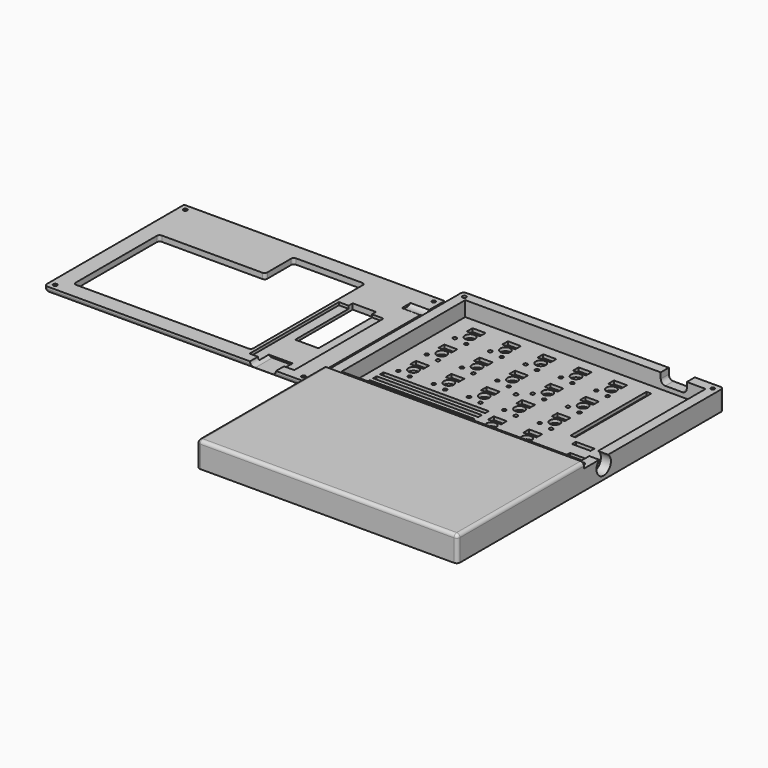
from build123d import *

# Parameters (mm, degrees)
PAD002_DEPTH            = 13.6
SKETCH023_W             = 129.2
SKETCH023_H             = 83.1
POCKET016_DEPTH         = 11
SKETCH027_R             = 1.05
POCKET018_DEPTH         = 13.601
SKETCH028_W             = 140
SKETCH028_H             = 93.9
POCKET019_DEPTH         = 3
POCKET021_DEPTH         = 1.6
SKETCH031_R             = 1
SKETCH031_R_2           = 2.7
SKETCH031_W             = 7
SKETCH031_H             = 3.8
POCKET022_DEPTH         = 1.8
SKETCH032_W             = 2.6
SKETCH032_H             = 51
SKETCH032_W_2           = 10
SKETCH032_H_2           = 2.6
POCKET023_DEPTH         = 1.8
SKETCH033_W             = 56.5
SKETCH033_H             = 2.4
SKETCH033_W_2           = 22.5
POCKET024_DEPTH         = 1.8
SKETCH034_W             = 15
SKETCH034_H             = 10
POCKET025_DEPTH         = 1.8
SKETCH035_R             = 4.85
POCKET026_DEPTH         = 5.4
FILLET003_R             = 1.8
POCKET027_DEPTH         = 10
SKETCH038_W             = 140
SKETCH038_H             = 93.9
PAD004_DEPTH            = 3
SKETCH039_W             = 12.5
SKETCH039_H             = 38.6472
POCKET028_DEPTH         = 3
SKETCH040_W             = 24
SKETCH040_H             = 60
POCKET029_DEPTH         = 1.5
SKETCH041_R             = 1.05
POCKET030_DEPTH         = 3.001
SKETCH042_R             = 1.9
POCKET031_DEPTH         = 1.4
CHAMFER001_1_ANGLE      = 45
CHAMFER001_1_SIZE       = 0.843
CHAMFER001_2_ANGLE      = 45
CHAMFER001_2_SIZE       = 0.843
CHAMFER001_3_ANGLE      = 45
CHAMFER001_3_SIZE       = 0.843
CHAMFER001_4_ANGLE      = 45
CHAMFER001_4_SIZE       = 0.843
FILLET004_R             = 1.5
SKETCH043_R             = 4.85
POCKET032_DEPTH         = 10
FILLET005_R             = 1.8
POCKET033_DEPTH         = 12
BODY003_PLACEMENT_ANGLE = 180


with BuildPart() as bottom001:
    # Sketch022 (on XY_Plane077 of Origin464) → Pad002 (new body)
    with BuildSketch(Plane.XY):
        Polygon((70, -46.95), (70, 46.95), (-70, 46.95), (-70, -46.95), (-70, -131.95), (70, -131.95), align=None)
    extrude(amount=PAD002_DEPTH)

    # Sketch023 (on Face4 of Pad002) → Pocket016 (cut)
    with BuildSketch(Plane.XY.offset(13.6)):
        Rectangle(SKETCH023_W, SKETCH023_H)
    extrude(amount=-POCKET016_DEPTH, mode=Mode.SUBTRACT)

    # Sketch027 (on Face5 of Pocket016) → Pocket018 (cut, through all)
    with BuildSketch(Plane.XY.offset(13.6)):
        with Locations((66.75, 43.7)):
            Circle(SKETCH027_R)
        with Locations((66.75, -43.7)):
            Circle(SKETCH027_R)
        with Locations((-66.75, -43.7)):
            Circle(SKETCH027_R)
        with Locations((-66.75, 43.7)):
            Circle(SKETCH027_R)
        with Locations((-4.05, 0)):
            Circle(SKETCH027_R)
    extrude(amount=-POCKET018_DEPTH, mode=Mode.SUBTRACT)

    # Sketch028 (on Face4 of Pad002) → Pocket019 (cut)
    with BuildSketch(Plane.XY.offset(13.6)):
        Rectangle(SKETCH028_W, SKETCH028_H)
    extrude(amount=-POCKET019_DEPTH, mode=Mode.SUBTRACT)

    # Sketch030 (on Face2 of Pocket019) → Pocket021 (cut)
    with BuildSketch(Plane(origin=(0, 0, 0), x_dir=(1, 0, 0), z_dir=(0, 0, -1))):
        Polygon((64.75, -43.7), (65.75, -45.432051), (67.75, -45.432051), (68.75, -43.7), (67.75, -41.967949), (65.75, -41.967949), align=None)
        Polygon((-64.75, -43.7), (-65.75, -45.432051), (-67.75, -45.432051), (-68.75, -43.7), (-67.75, -41.967949), (-65.75, -41.967949), align=None)
        Polygon((64.75, 43.7), (65.75, 45.432051), (67.75, 45.432051), (68.75, 43.7), (67.75, 41.967949), (65.75, 41.967949), align=None)
        Polygon((-64.75, 43.7), (-65.75, 45.432051), (-67.75, 45.432051), (-68.75, 43.7), (-67.75, 41.967949), (-65.75, 41.967949), align=None)
        Polygon((-2.05, 0), (-3.05, 1.732051), (-5.05, 1.732051), (-6.05, 0), (-5.05, -1.732051), (-3.05, -1.732051), align=None)
    extrude(amount=-POCKET021_DEPTH, mode=Mode.SUBTRACT)

    # Sketch031 (on Face52 of Pocket021) → Pocket022 (cut)
    with BuildSketch(Plane.XY.offset(2.6)):
        with Locations((8.05, 3.75)):
            Circle(SKETCH031_R)
        with Locations((1.05, 4.8)):
            Circle(SKETCH031_R)
        with Locations((5.45, 9.5)):
            Circle(SKETCH031_R_2)
        with Locations((8.05, 22.75)):
            Circle(SKETCH031_R)
        with Locations((1.05, 23.8)):
            Circle(SKETCH031_R)
        with Locations((5.45, 28.5)):
            Circle(SKETCH031_R_2)
        with Locations((-29.95, 3.75)):
            Circle(SKETCH031_R)
        with Locations((-36.95, 4.8)):
            Circle(SKETCH031_R)
        with Locations((-32.55, 9.5)):
            Circle(SKETCH031_R_2)
        with Locations((-29.95, 22.75)):
            Circle(SKETCH031_R)
        with Locations((-36.95, 23.8)):
            Circle(SKETCH031_R)
        with Locations((-32.55, 28.5)):
            Circle(SKETCH031_R_2)
        with Locations((-48.95, 22.75)):
            Circle(SKETCH031_R)
        with Locations((-55.95, 23.8)):
            Circle(SKETCH031_R)
        with Locations((-51.55, 28.5)):
            Circle(SKETCH031_R_2)
        with Locations((-48.95, 3.75)):
            Circle(SKETCH031_R)
        with Locations((-55.95, 4.8)):
            Circle(SKETCH031_R)
        with Locations((-51.55, 9.5)):
            Circle(SKETCH031_R_2)
        with Locations((-10.95, 22.75)):
            Circle(SKETCH031_R)
        with Locations((-17.95, 23.8)):
            Circle(SKETCH031_R)
        with Locations((-13.55, 28.5)):
            Circle(SKETCH031_R_2)
        with Locations((27.05, 3.75)):
            Circle(SKETCH031_R)
        with Locations((20.05, 4.8)):
            Circle(SKETCH031_R)
        with Locations((24.45, 9.5)):
            Circle(SKETCH031_R_2)
        with Locations((27.05, 22.75)):
            Circle(SKETCH031_R)
        with Locations((20.05, 23.8)):
            Circle(SKETCH031_R)
        with Locations((24.45, 28.5)):
            Circle(SKETCH031_R_2)
        with Locations((-48.95, -15.25)):
            Circle(SKETCH031_R)
        with Locations((-55.95, -14.2)):
            Circle(SKETCH031_R)
        with Locations((-51.55, -9.5)):
            Circle(SKETCH031_R_2)
        with Locations((-29.95, -15.25)):
            Circle(SKETCH031_R)
        with Locations((-36.95, -14.2)):
            Circle(SKETCH031_R)
        with Locations((-32.55, -9.5)):
            Circle(SKETCH031_R_2)
        with Locations((-10.95, -15.25)):
            Circle(SKETCH031_R)
        with Locations((-17.95, -14.2)):
            Circle(SKETCH031_R)
        with Locations((-13.55, -9.5)):
            Circle(SKETCH031_R_2)
        with Locations((8.05, -15.25)):
            Circle(SKETCH031_R)
        with Locations((1.05, -14.2)):
            Circle(SKETCH031_R)
        with Locations((5.45, -9.5)):
            Circle(SKETCH031_R_2)
        with Locations((27.05, -15.25)):
            Circle(SKETCH031_R)
        with Locations((20.05, -14.2)):
            Circle(SKETCH031_R)
        with Locations((24.45, -9.5)):
            Circle(SKETCH031_R_2)
        with Locations((8.05, -34.25)):
            Circle(SKETCH031_R)
        with Locations((1.05, -33.2)):
            Circle(SKETCH031_R)
        with Locations((5.45, -28.5)):
            Circle(SKETCH031_R_2)
        with Locations((27.05, -34.25)):
            Circle(SKETCH031_R)
        with Locations((20.05, -33.2)):
            Circle(SKETCH031_R)
        with Locations((24.45, -28.5)):
            Circle(SKETCH031_R_2)
        with Locations((-10.95, 3.75)):
            Circle(SKETCH031_R)
        with Locations((-17.95, 4.8)):
            Circle(SKETCH031_R)
        with Locations((-13.55, 9.5)):
            Circle(SKETCH031_R_2)
        with Locations((4.65, 14.65)):
            Rectangle(SKETCH031_W, SKETCH031_H)
        with Locations((4.65, 33.65)):
            Rectangle(SKETCH031_W, SKETCH031_H)
        with Locations((-33.35, 14.65)):
            Rectangle(SKETCH031_W, SKETCH031_H)
        with Locations((-33.35, 33.65)):
            Rectangle(SKETCH031_W, SKETCH031_H)
        with Locations((-52.35, 33.65)):
            Rectangle(SKETCH031_W, SKETCH031_H)
        with Locations((-52.35, 14.65)):
            Rectangle(SKETCH031_W, SKETCH031_H)
        with Locations((-14.35, 33.65)):
            Rectangle(SKETCH031_W, SKETCH031_H)
        with Locations((23.65, 14.65)):
            Rectangle(SKETCH031_W, SKETCH031_H)
        with Locations((23.65, 33.65)):
            Rectangle(SKETCH031_W, SKETCH031_H)
        with Locations((-52.35, -4.35)):
            Rectangle(SKETCH031_W, SKETCH031_H)
        with Locations((-33.35, -4.35)):
            Rectangle(SKETCH031_W, SKETCH031_H)
        with Locations((-14.35, -4.35)):
            Rectangle(SKETCH031_W, SKETCH031_H)
        with Locations((4.65, -4.35)):
            Rectangle(SKETCH031_W, SKETCH031_H)
        with Locations((23.65, -4.35)):
            Rectangle(SKETCH031_W, SKETCH031_H)
        with Locations((4.65, -23.35)):
            Rectangle(SKETCH031_W, SKETCH031_H)
        with Locations((23.65, -23.35)):
            Rectangle(SKETCH031_W, SKETCH031_H)
        with Locations((-14.35, 14.65)):
            Rectangle(SKETCH031_W, SKETCH031_H)
    extrude(amount=-POCKET022_DEPTH, mode=Mode.SUBTRACT)

    # Sketch032 (on Face52 of Pocket022) → Pocket023 (cut)
    with BuildSketch(Plane.XY.offset(2.6)):
        with Locations((38.55, 10.5)):
            Rectangle(SKETCH032_W, SKETCH032_H)
        with Locations((56.4, 10.5)):
            Rectangle(SKETCH032_W, SKETCH032_H)
        with Locations((47.5, -19.3)):
            Rectangle(SKETCH032_W_2, SKETCH032_H_2)
    extrude(amount=-POCKET023_DEPTH, mode=Mode.SUBTRACT)

    # Sketch033 (on Face52 of Pocket023) → Pocket024 (cut)
    with BuildSketch(Plane.XY.offset(2.6)):
        with Locations((-31.75, -24.9)):
            Rectangle(SKETCH033_W, SKETCH033_H)
        with Locations((-31.75, -29.5)):
            Rectangle(SKETCH033_W, SKETCH033_H)
        with Locations((-14.75, -34.1)):
            Rectangle(SKETCH033_W_2, SKETCH033_H)
        with Locations((-31.75, -20.3)):
            Rectangle(SKETCH033_W, SKETCH033_H)
    extrude(amount=-POCKET024_DEPTH, mode=Mode.SUBTRACT)

    # Sketch034 (on Face52 of Pocket024) → Pocket025 (cut)
    with BuildSketch(Plane.XY.offset(2.6)):
        with Locations((54.375, -32.375)):
            Rectangle(SKETCH034_W, SKETCH034_H)
    extrude(amount=-POCKET025_DEPTH, mode=Mode.SUBTRACT)

    # Sketch035 (on Face5 of Pocket025) → Pocket026 (cut)
    with BuildSketch(Plane.YZ.offset(70)):
        with Locations((-33.65, 6.75)):
            Circle(SKETCH035_R)
    extrude(amount=-POCKET026_DEPTH, mode=Mode.SUBTRACT)

    # Fillet003
    fillet003_edges = [bottom001.edges().sort_by_distance(p)[0] for p in [
        (-70, -89.45, 13.6),
        (0, -131.95, 13.6),
        (-70, -131.95, 6.8),
        (-70, 46.95, 5.3),
        (70, 46.95, 5.3),
        (70, -89.45, 13.6),
        (70, -131.95, 6.8),
    ]]
    fillet(fillet003_edges, radius=FILLET003_R)

    # Sketch037 (on Face1 of Fillet003) → Pocket027 (cut)
    with BuildSketch(Plane(origin=(0, 46.95, 0), x_dir=(-1, 0, 0), z_dir=(0, 1, 0))):
        with BuildLine():
            Line((-40.5, 7.5), (-40.5, 10.5))
            ThreePointArc((-40.5, 10.5), (-41.232233, 12.267767), (-43, 13))
            Line((-43, 13), (-52, 13))
            ThreePointArc((-52, 13), (-53.767767, 12.267767), (-54.5, 10.5))
            Line((-54.5, 10.5), (-54.5, 7.5))
            ThreePointArc((-54.5, 7.5), (-53.767767, 5.732233), (-52, 5))
            Line((-52, 5), (-43, 5))
            ThreePointArc((-43, 5), (-41.232233, 5.732233), (-40.5, 7.5))
        make_face()
    extrude(amount=-POCKET027_DEPTH, mode=Mode.SUBTRACT)


with BuildPart() as bottom001_1:
    # Body002 placement: moved
    add(bottom001.part.moved(Location((0, 0, -0.1))))


with BuildPart() as top001:
    # Sketch038 (on XY_Plane154 of Origin468) → Pad004 (new body)
    with BuildSketch(Plane.XY):
        Rectangle(SKETCH038_W, SKETCH038_H)
    extrude(amount=PAD004_DEPTH)

    # Sketch039 (on Face6 of Pad004) → Pocket028 (cut)
    with BuildSketch(Plane.XY.offset(3)):
        Polygon((-61.3, 38.25), (-61.3, -19.25), (-4.3, -19.25), (-4.3, -38.25), (34.2, -38.25), (34.2, 38.25), align=None)
        with Locations((47.48708, -1.86296)):
            Rectangle(SKETCH039_W, SKETCH039_H)
    extrude(amount=-POCKET028_DEPTH, mode=Mode.SUBTRACT)

    # Sketch040 (on Face4 of Pocket028) → Pocket029 (cut)
    with BuildSketch(Plane(origin=(0, 0, 0), x_dir=(1, 0, 0), z_dir=(0, 0, -1))):
        with Locations((48, -11.55)):
            Rectangle(SKETCH040_W, SKETCH040_H)
    extrude(amount=-POCKET029_DEPTH, mode=Mode.SUBTRACT)

    # Sketch041 (on Face5 of Pocket029) → Pocket030 (cut, through all)
    with BuildSketch(Plane.XY.offset(3)):
        with Locations((66.75, 43.7)):
            Circle(SKETCH041_R)
        with Locations((66.75, -43.7)):
            Circle(SKETCH041_R)
        with Locations((-66.75, -43.7)):
            Circle(SKETCH041_R)
        with Locations((-66.75, 43.7)):
            Circle(SKETCH041_R)
    extrude(amount=-POCKET030_DEPTH, mode=Mode.SUBTRACT)

    # Sketch042 (on Face5 of Pocket030) → Pocket031 (cut)
    with BuildSketch(Plane.XY.offset(3)):
        with Locations((-66.75, 43.7)):
            Circle(SKETCH042_R)
        with Locations((66.75, 43.7)):
            Circle(SKETCH042_R)
        with Locations((-66.75, -43.7)):
            Circle(SKETCH042_R)
        with Locations((66.75, -43.7)):
            Circle(SKETCH042_R)
    extrude(amount=-POCKET031_DEPTH, mode=Mode.SUBTRACT)

    # Chamfer001 1
    chamfer001_1_edges = [top001.edges().sort_by_distance(p)[0] for p in [
        (-67.8, 43.7, 1.6),
    ]]
    chamfer001_1_side = top001.faces().sort_by_distance((-67.8, 43.7, 0.8))[0]
    chamfer(chamfer001_1_edges, length=CHAMFER001_1_SIZE, angle=CHAMFER001_1_ANGLE, reference=chamfer001_1_side)

    # Chamfer001 2
    chamfer001_2_edges = [top001.edges().sort_by_distance(p)[0] for p in [
        (65.7, -43.7, 1.6),
    ]]
    chamfer001_2_side = top001.faces().sort_by_distance((65.7, -43.7, 0.8))[0]
    chamfer(chamfer001_2_edges, length=CHAMFER001_2_SIZE, angle=CHAMFER001_2_ANGLE, reference=chamfer001_2_side)

    # Chamfer001 3
    chamfer001_3_edges = [top001.edges().sort_by_distance(p)[0] for p in [
        (-67.8, -43.7, 1.6),
    ]]
    chamfer001_3_side = top001.faces().sort_by_distance((-67.8, -43.7, 0.8))[0]
    chamfer(chamfer001_3_edges, length=CHAMFER001_3_SIZE, angle=CHAMFER001_3_ANGLE, reference=chamfer001_3_side)

    # Chamfer001 4
    chamfer001_4_edges = [top001.edges().sort_by_distance(p)[0] for p in [
        (65.7, 43.7, 1.6),
    ]]
    chamfer001_4_side = top001.faces().sort_by_distance((65.7, 43.7, 0.8))[0]
    chamfer(chamfer001_4_edges, length=CHAMFER001_4_SIZE, angle=CHAMFER001_4_ANGLE, reference=chamfer001_4_side)

    # Fillet004
    fillet004_edges = [top001.edges().sort_by_distance(p)[0] for p in [
        (-4.3, -38.25, 1.5),
        (34.2, -38.25, 1.5),
        (34.2, 38.25, 1.5),
        (-61.3, 38.25, 1.5),
        (-61.3, -19.25, 1.5),
        (-4.3, -19.25, 1.5),
    ]]
    fillet(fillet004_edges, radius=FILLET004_R)

    # Sketch043 (on Face16 of Fillet004) → Pocket032 (cut)
    with BuildSketch(Plane.YZ.offset(70)):
        with Locations((-33.64, -3.85)):
            Circle(SKETCH043_R)
    extrude(amount=-POCKET032_DEPTH, mode=Mode.SUBTRACT)

    # Fillet005
    fillet005_edges = [top001.edges().sort_by_distance(p)[0] for p in [
        (70, 0, 3),
        (0, 46.95, 3),
        (70, 46.95, 1.5),
        (-70, 46.95, 1.5),
        (-70, 0, 3),
    ]]
    fillet(fillet005_edges, radius=FILLET005_R)

    # Sketch044 (on Face5 of Fillet005) → Pocket033 (cut)
    with BuildSketch(Plane(origin=(0, 46.95, 0), x_dir=(-1, 0, 0), z_dir=(0, 1, 0))):
        with BuildLine():
            Line((-40.5, -3.1), (-40.5, -0.1))
            ThreePointArc((-40.5, -0.1), (-41.232233, 1.667767), (-43, 2.4))
            Line((-43, 2.4), (-52, 2.4))
            ThreePointArc((-52, 2.4), (-53.767767, 1.667767), (-54.5, -0.1))
            Line((-54.5, -0.1), (-54.5, -3.1))
            ThreePointArc((-54.5, -3.1), (-53.767767, -4.867767), (-52, -5.6))
            Line((-52, -5.6), (-43, -5.6))
            ThreePointArc((-43, -5.6), (-41.232233, -4.867767), (-40.5, -3.1))
        make_face()
    extrude(amount=-POCKET033_DEPTH, mode=Mode.SUBTRACT)


with BuildPart() as top001_1:
    # Body003 placement: moved
    add(top001.part.moved(Location((-150, 0, 2.9))).rotate(Axis((-150, 0, 2.9), (1, 0, 0)), BODY003_PLACEMENT_ANGLE))


solid = Compound([bottom001_1.part, top001_1.part])
